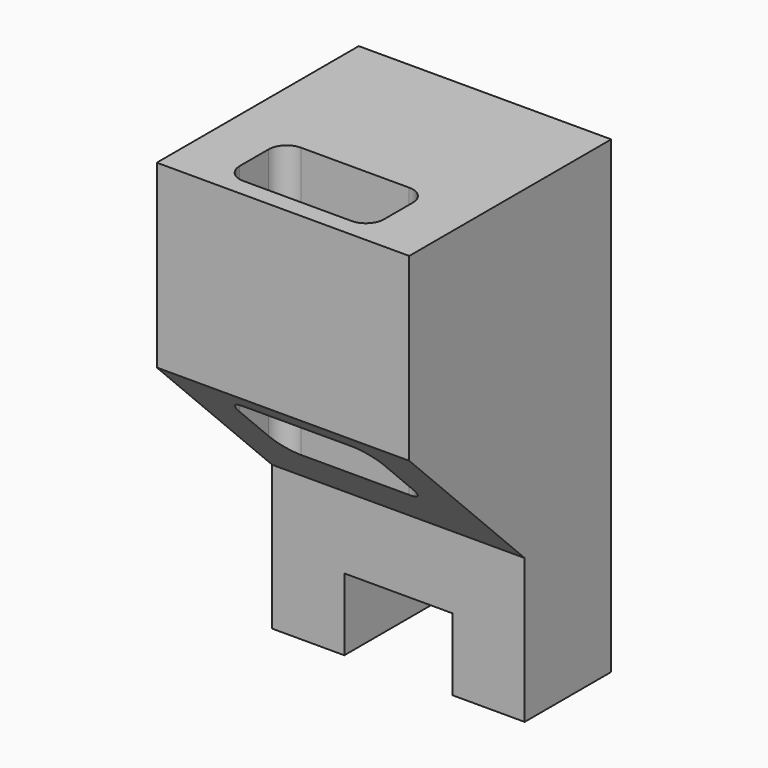
from build123d import *

# Parameters (mm, degrees)
F1_DEPTH = 30
F3_DEPTH = 40
F5_DEPTH = 70
F7_DEPTH = 130.001


with BuildPart() as f1:
    # F0 (on Front) → F1 (new body)
    with BuildSketch(Plane.XZ):
        Polygon((35, -45), (35, 65), (-35, 65), (-35, -45), (-35, -65), (-15, -65), (-15, -45), (15, -45), (15, -65), (35, -65), align=None)
    extrude(amount=F1_DEPTH)

    # F2 (on face) → F3 (join)
    with BuildSketch(Plane.XZ.offset(30)):
        Polygon((-20, 65), (-35, 65), (-35, 50), (-35, 30), (-35, 15), (-20, 15), (20, 15), (35, 15), (35, 30), (35, 50), (35, 65), (20, 65), align=None)
    extrude(amount=F3_DEPTH)

    # F4 (on face) → F5 (join)
    with BuildSketch(Plane.YZ.offset(35)):
        Polygon((-70, 15), (-30, -25), (-30, 15), align=None)
    extrude(amount=-F5_DEPTH)

    # F6 (on face) → F7 (cut, through all)
    with BuildSketch(Plane.XY.offset(65)):
        with BuildLine():
            Line((15, -45), (-15, -45))
            ThreePointArc((-15, -45), (-18.535534, -46.464466), (-20, -50))
            Line((-20, -50), (-20, -60))
            ThreePointArc((-20, -60), (-18.535534, -63.535534), (-15, -65))
            Line((-15, -65), (15, -65))
            ThreePointArc((15, -65), (18.535534, -63.535534), (20, -60))
            Line((20, -60), (20, -50))
            ThreePointArc((20, -50), (18.535534, -46.464466), (15, -45))
        make_face()
    extrude(amount=-F7_DEPTH, mode=Mode.SUBTRACT)


solid = f1.part
